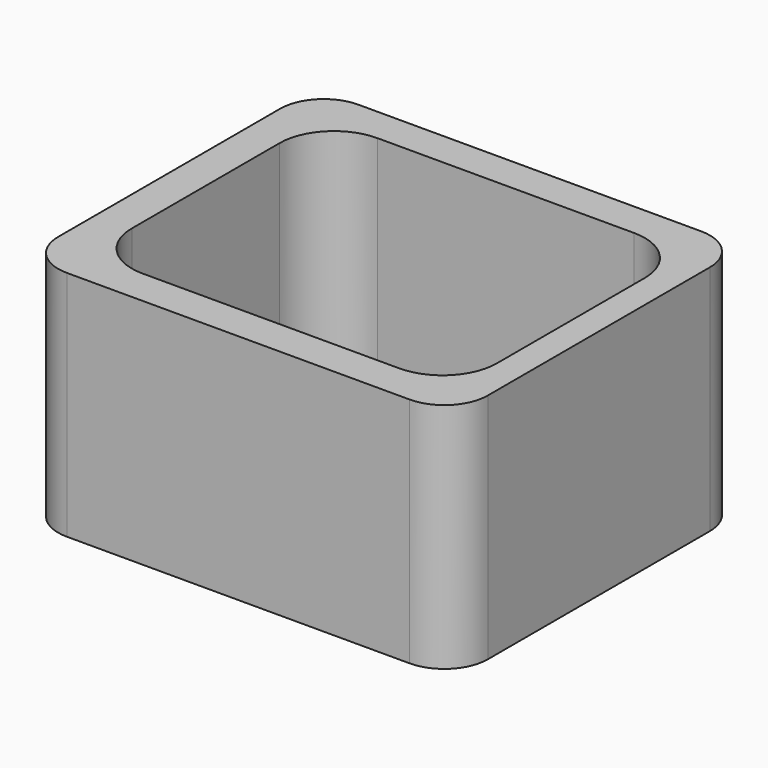
from build123d import *

# Parameters (mm, degrees)
F0_W     = 50.268072
F0_H     = 42.637728
F1_DEPTH = 27.178
F3_DEPTH = 25.4
F4_R     = 5.08
F5_R     = 5.08
F6_R     = 5.08
F7_R     = 5.08


with BuildPart() as f1:
    # F0 (on Top) → F1 (new body)
    with BuildSketch(Plane.XY):
        with Locations((-30.954471, -45.758236)):
            Rectangle(F0_W, F0_H)
    extrude(amount=F1_DEPTH)

    # F2 (on face) → F3 (cut)
    with BuildSketch(Plane.XY.offset(27.178)):
        with BuildLine():
            Line((-15.500558, -28.52626), (-45.524775, -28.52626))
            ThreePointArc((-45.524775, -28.52626), (-50.014904, -30.386132), (-51.874775, -34.87626))
            Line((-51.874775, -34.87626), (-51.874775, -56.50087))
            ThreePointArc((-51.874775, -56.50087), (-50.014904, -60.990998), (-45.524775, -62.85087))
            Line((-45.524775, -62.85087), (-15.500558, -62.85087))
            ThreePointArc((-15.500558, -62.85087), (-11.01043, -60.990998), (-9.150558, -56.50087))
            Line((-9.150558, -56.50087), (-9.150558, -34.87626))
            ThreePointArc((-9.150558, -34.87626), (-11.01043, -30.386132), (-15.500558, -28.52626))
        make_face()
    extrude(amount=-F3_DEPTH, mode=Mode.SUBTRACT)

    # F4
    f4_edges = [f1.edges().sort_by_distance(p)[0] for p in [
        (-56.088507, -67.0771, 13.589),
    ]]
    fillet(f4_edges, radius=F4_R)

    # F5
    f5_edges = [f1.edges().sort_by_distance(p)[0] for p in [
        (-5.820435, -67.0771, 13.589),
    ]]
    fillet(f5_edges, radius=F5_R)

    # F6
    f6_edges = [f1.edges().sort_by_distance(p)[0] for p in [
        (-56.088507, -24.439372, 13.589),
    ]]
    fillet(f6_edges, radius=F6_R)

    # F7
    f7_edges = [f1.edges().sort_by_distance(p)[0] for p in [
        (-5.820435, -24.439372, 13.589),
    ]]
    fillet(f7_edges, radius=F7_R)


solid = f1.part
